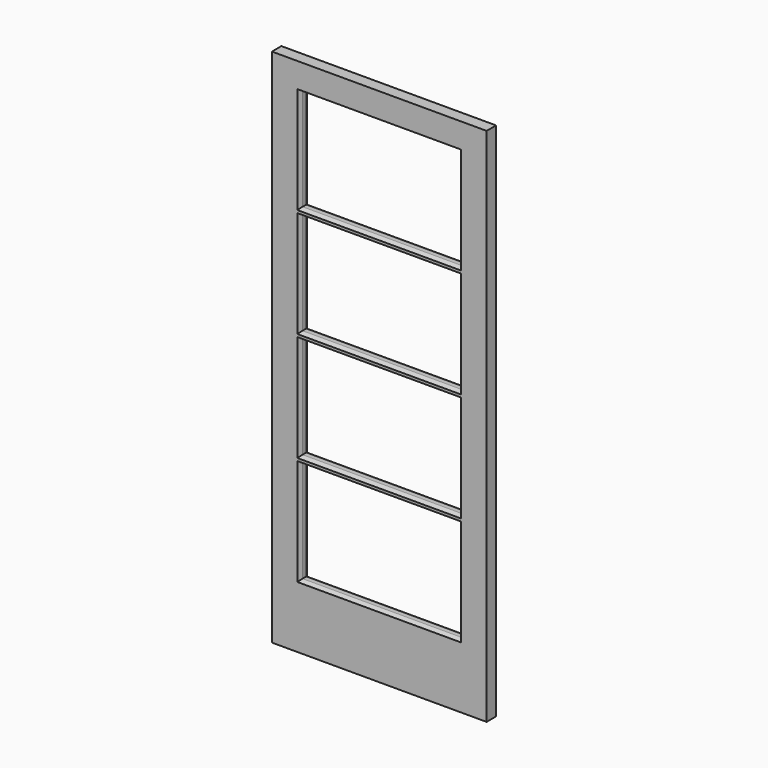
from build123d import *

# Parameters (mm, degrees)
F0_W     = 815
F0_H     = 1975
F0_W_2   = 610
F0_H_2   = 392.25
F1_DEPTH = 22.5
F2_SIZE2 = 17
F2_SIZE  = 6
F3_SIZE2 = 13
F3_SIZE  = 6


with BuildPart() as f1:
    # F0 (on Front) → F1 (new body, symmetric)
    with BuildSketch(Plane.XZ):
        Rectangle(F0_W, F0_H)
        with Locations((0, -551.375)):
            Rectangle(F0_W_2, F0_H_2, mode=Mode.SUBTRACT)
        with Locations((0, -137.125)):
            Rectangle(F0_W_2, F0_H_2, mode=Mode.SUBTRACT)
        with Locations((0, 277.125)):
            Rectangle(F0_W_2, F0_H_2, mode=Mode.SUBTRACT)
        with Locations((0, 691.375)):
            Rectangle(F0_W_2, F0_H_2, mode=Mode.SUBTRACT)
    extrude(amount=F1_DEPTH, both=True)

    # F2
    f2_edges = [f1.edges().sort_by_distance(p)[0] for p in [
        (305, -22.5, -551.375),
        (0, -22.5, -355.25),
        (305, -22.5, -137.125),
        (0, -22.5, 59),
        (305, -22.5, 277.125),
        (0, -22.5, 473.25),
        (305, -22.5, 691.375),
        (0, -22.5, 887.5),
        (-305, -22.5, 691.375),
        (0, -22.5, 495.25),
        (-305, -22.5, 277.125),
        (0, -22.5, 81),
        (-305, -22.5, -137.125),
        (0, -22.5, -333.25),
        (-305, -22.5, -551.375),
        (0, -22.5, -747.5),
    ]]
    f2_side = f1.faces().sort_by_distance((0, -22.5, 966.13449))[0]
    chamfer(f2_edges, length=F2_SIZE, length2=F2_SIZE2, reference=f2_side)

    # F3
    f3_edges = [f1.edges().sort_by_distance(p)[0] for p in [
        (0, 22.5, -747.5),
        (305, 22.5, -551.375),
        (0, 22.5, -355.25),
        (-305, 22.5, -551.375),
        (-305, 22.5, -137.125),
        (0, 22.5, 59),
        (-305, 22.5, 277.125),
        (0, 22.5, -333.25),
        (305, 22.5, -137.125),
        (0, 22.5, 81),
        (305, 22.5, 277.125),
        (0, 22.5, 473.25),
        (305, 22.5, 691.375),
        (0, 22.5, 887.5),
        (-305, 22.5, 691.375),
        (0, 22.5, 495.25),
    ]]
    f3_side = f1.faces().sort_by_distance((0, 22.5, 966.13449))[0]
    chamfer(f3_edges, length=F3_SIZE, length2=F3_SIZE2, reference=f3_side)


solid = f1.part
